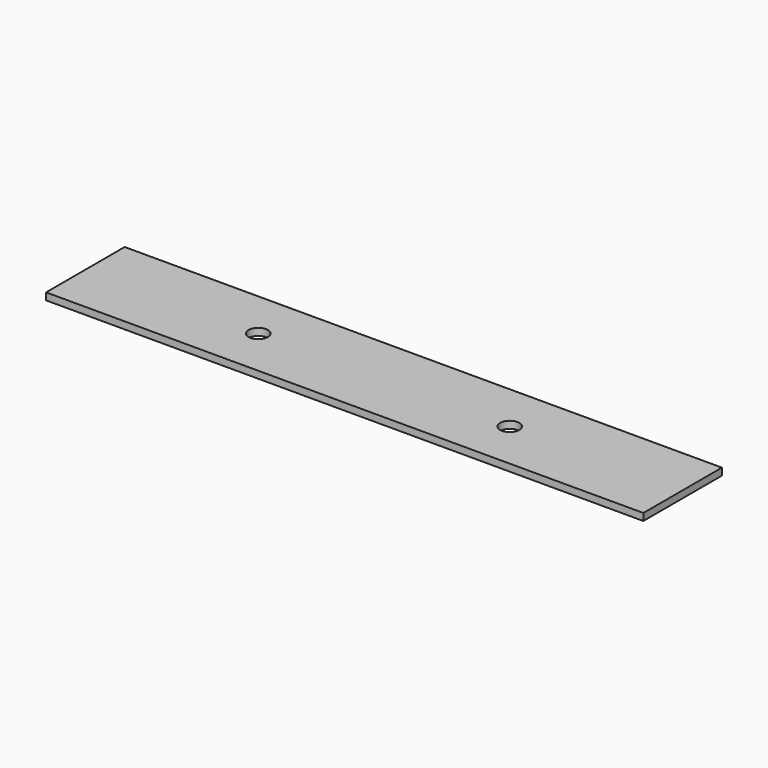
from build123d import *

# Parameters (mm, degrees)
F0_W     = 1520
F0_H     = 250
F0_R     = 24.5
F1_DEPTH = 18


with BuildPart() as f1:
    # F0 (on Top) → F1 (new body)
    with BuildSketch(Plane.XY):
        with Locations((702.524772, 160.124058)):
            Rectangle(F0_W, F0_H)
        with Locations((382.524772, 160.124058)):
            Circle(F0_R, mode=Mode.SUBTRACT)
        with Locations((1022.524772, 160.124058)):
            Circle(F0_R, mode=Mode.SUBTRACT)
        with Locations((702.524772, 160.124058)):
            Rectangle(F0_W, F0_H)
        with Locations((382.524772, 160.124058)):
            Circle(F0_R, mode=Mode.SUBTRACT)
        with Locations((1022.524772, 160.124058)):
            Circle(F0_R, mode=Mode.SUBTRACT)
        with Locations((702.524772, 160.124058)):
            Rectangle(F0_W, F0_H)
        with Locations((382.524772, 160.124058)):
            Circle(F0_R, mode=Mode.SUBTRACT)
        with Locations((1022.524772, 160.124058)):
            Circle(F0_R, mode=Mode.SUBTRACT)
    extrude(amount=F1_DEPTH)


solid = f1.part
